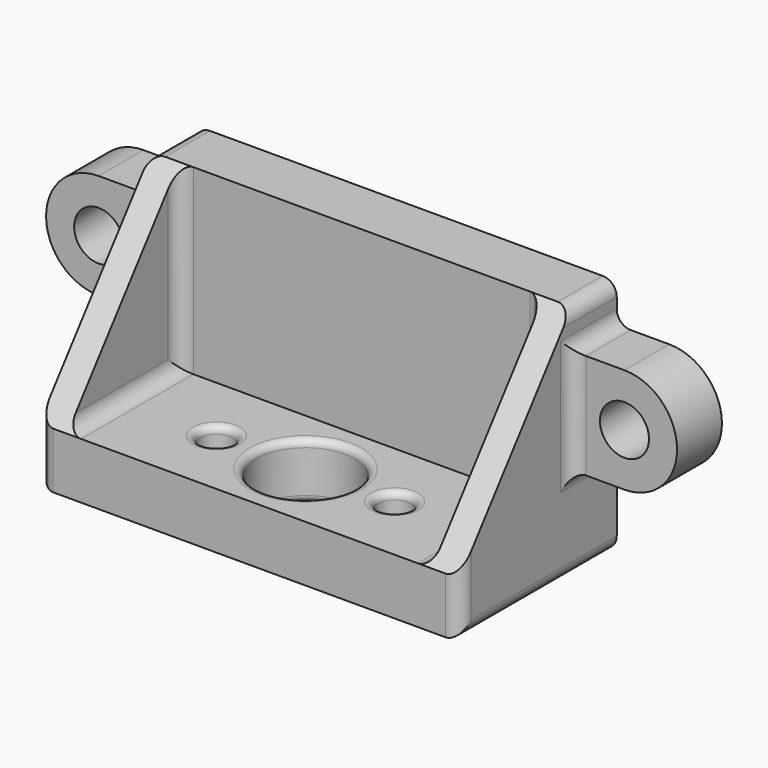
from build123d import *

# Parameters (mm, degrees)
F0_W     = 30
F0_H     = 10
F0_R     = 1.175
F0_R_2   = 3.5
F0_H_2   = 4
F1_DEPTH = 4
F2_R     = 1.75
F3_DEPTH = 4
F5_DEPTH = 2
F7_DEPTH = 2
F8_R     = 1
F9_R     = 0.5


with BuildPart() as f1:
    # F0 (on Top) → F1 (new body)
    with BuildSketch(Plane.XY):
        Rectangle(F0_W, F0_H)
        with Locations((-6.35, 0)):
            Circle(F0_R, mode=Mode.SUBTRACT)
        Circle(F0_R_2, mode=Mode.SUBTRACT)
        with Locations((6.35, 0)):
            Circle(F0_R, mode=Mode.SUBTRACT)
        with Locations((0, 7)):
            Rectangle(F0_W, F0_H_2)
    extrude(amount=F1_DEPTH)

    # F2 (on face) → F3 (join)
    with BuildSketch(Plane(origin=(0, 9, 0), x_dir=(-1, 0, 0), z_dir=(0, 1, 0))):
        Polygon((-15, 6.75), (-15, 4), (15, 4), (15, 6.75), (15, 14.25), (15, 17), (-15, 17), (-15, 14.25), align=None)
        with BuildLine():
            Line((-18.75, 6.75), (-15, 6.75))
            Line((-15, 6.75), (-15, 14.25))
            Line((-15, 14.25), (-18.75, 14.25))
            ThreePointArc((-18.75, 14.25), (-22.5, 10.5), (-18.75, 6.75))
        make_face()
        with Locations((-18.75, 10.5)):
            Circle(F2_R, mode=Mode.SUBTRACT)
        with BuildLine():
            Line((15, 14.25), (15, 6.75))
            Line((15, 6.75), (18.75, 6.75))
            ThreePointArc((18.75, 6.75), (22.5, 10.5), (18.75, 14.25))
            Line((18.75, 14.25), (15, 14.25))
        make_face()
        with Locations((18.75, 10.5)):
            Circle(F2_R, mode=Mode.SUBTRACT)
    extrude(amount=-F3_DEPTH)

    # F4 (on face) → F5 (join)
    with BuildSketch(Plane(origin=(-15, 0, 0), x_dir=(0, -1, 0), z_dir=(-1, 0, 0))):
        Polygon((5, 4), (-5, 17), (-5, 14.25), (-5, 6.75), (-5, 4), align=None)
    extrude(amount=-F5_DEPTH)

    # F6 (on face) → F7 (join)
    with BuildSketch(Plane.YZ.offset(15)):
        Polygon((5, 6.75), (5, 14.25), (5, 17), (-5, 4), (5, 4), align=None)
    extrude(amount=-F7_DEPTH)

    # F8
    f8_edges = [f1.edges().sort_by_distance(p)[0] for p in [
        (13, 5, 10.5),
        (-13, 5, 10.5),
        (-13, 0, 4),
        (13, 0, 4),
        (15, 7, 14.25),
        (15, 7, 6.75),
        (-15, 7, 6.75),
        (-15, 7, 14.25),
        (-15, 5, 10.5),
        (15, 5, 10.5),
        (15, -5, 2),
        (-15, -5, 2),
        (15, 7, 17),
        (15, 2, 0),
        (-15, 7, 17),
        (-15, 2, 0),
    ]]
    fillet(f8_edges, radius=F8_R)

    # F9
    f9_edges = [f1.edges().sort_by_distance(p)[0] for p in [
        (7.525, 0, 2),
        (5.175, 0, 0),
        (5.175, 0, 4),
        (-5.175, 0, 2),
        (-7.525, 0, 0),
        (-7.525, 0, 4),
        (3.5, 0, 2),
        (-3.5, 0, 0),
        (-3.5, 0, 4),
    ]]
    fillet(f9_edges, radius=F9_R)


solid = f1.part
